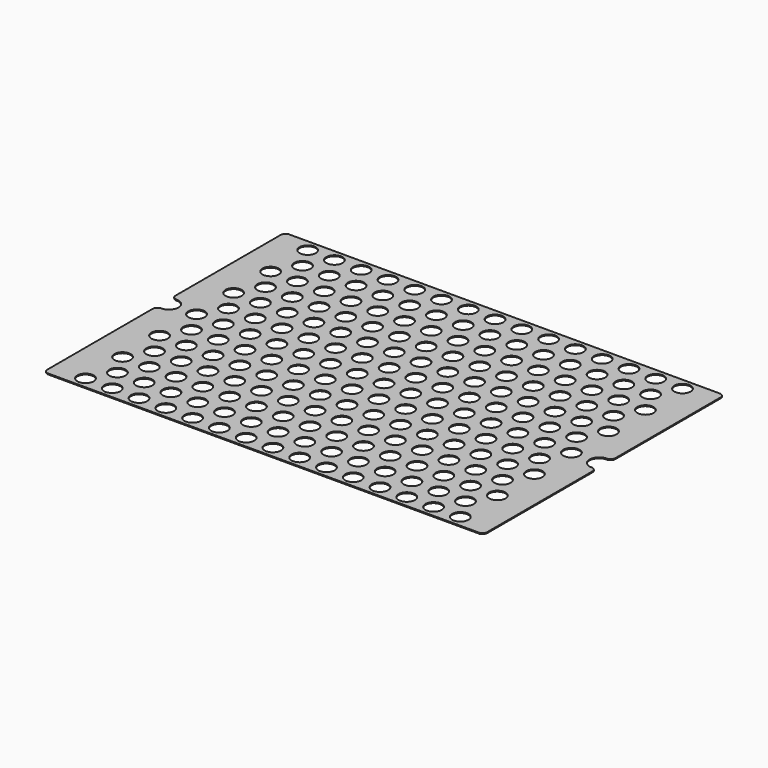
from build123d import *

# Parameters (mm, degrees)
F0_R     = 8.5
F1_DEPTH = 1


with BuildPart() as f1:
    # F0 (on Top) → F1 (new body)
    with BuildSketch(Plane.XY):
        with BuildLine():
            Line((225, 157.5), (-225, 157.5))
            ThreePointArc((-225, 157.5), (-228.535534, 156.035534), (-230, 152.5))
            Line((-230, 152.5), (-230, 15))
            ThreePointArc((-230, 15), (-228.535534, 11.464466), (-225, 10))
            ThreePointArc((-225, 10), (-215, 0), (-225, -10))
            ThreePointArc((-225, -10), (-228.535534, -11.464466), (-230, -15))
            Line((-230, -15), (-230, -152.5))
            ThreePointArc((-230, -152.5), (-228.535534, -156.035534), (-225, -157.5))
            Line((-225, -157.5), (225, -157.5))
            ThreePointArc((225, -157.5), (228.535534, -156.035534), (230, -152.5))
            Line((230, -152.5), (230, -15))
            ThreePointArc((230, -15), (228.535534, -11.464466), (225, -10))
            ThreePointArc((225, -10), (215, 0), (225, 10))
            ThreePointArc((225, 10), (228.535534, 11.464466), (230, 15))
            Line((230, 15), (230, 152.5))
            ThreePointArc((230, 152.5), (228.535534, 156.035534), (225, 157.5))
        make_face()
        with Locations((-196, -145.2)):
            Circle(F0_R, mode=Mode.SUBTRACT)
        with Locations((-182, -121)):
            Circle(F0_R, mode=Mode.SUBTRACT)
        with Locations((-168, -145.2)):
            Circle(F0_R, mode=Mode.SUBTRACT)
        with Locations((-140, -145.2)):
            Circle(F0_R, mode=Mode.SUBTRACT)
        with Locations((-154, -121)):
            Circle(F0_R, mode=Mode.SUBTRACT)
        with Locations((-126, -121)):
            Circle(F0_R, mode=Mode.SUBTRACT)
        with Locations((-196, -96.8)):
            Circle(F0_R, mode=Mode.SUBTRACT)
        with Locations((-168, -96.8)):
            Circle(F0_R, mode=Mode.SUBTRACT)
        with Locations((-140, -96.8)):
            Circle(F0_R, mode=Mode.SUBTRACT)
        with Locations((-112, -145.2)):
            Circle(F0_R, mode=Mode.SUBTRACT)
        with Locations((-84, -145.2)):
            Circle(F0_R, mode=Mode.SUBTRACT)
        with Locations((-98, -121)):
            Circle(F0_R, mode=Mode.SUBTRACT)
        with Locations((-70, -121)):
            Circle(F0_R, mode=Mode.SUBTRACT)
        with Locations((-56, -145.2)):
            Circle(F0_R, mode=Mode.SUBTRACT)
        with Locations((-28, -145.2)):
            Circle(F0_R, mode=Mode.SUBTRACT)
        with Locations((-42, -121)):
            Circle(F0_R, mode=Mode.SUBTRACT)
        with Locations((-14, -121)):
            Circle(F0_R, mode=Mode.SUBTRACT)
        with Locations((-112, -96.8)):
            Circle(F0_R, mode=Mode.SUBTRACT)
        with Locations((-84, -96.8)):
            Circle(F0_R, mode=Mode.SUBTRACT)
        with Locations((-56, -96.8)):
            Circle(F0_R, mode=Mode.SUBTRACT)
        with Locations((-28, -96.8)):
            Circle(F0_R, mode=Mode.SUBTRACT)
        with Locations((-182, -72.6)):
            Circle(F0_R, mode=Mode.SUBTRACT)
        with Locations((-196, -48.4)):
            Circle(F0_R, mode=Mode.SUBTRACT)
        with Locations((-154, -72.6)):
            Circle(F0_R, mode=Mode.SUBTRACT)
        with Locations((-126, -72.6)):
            Circle(F0_R, mode=Mode.SUBTRACT)
        with Locations((-168, -48.4)):
            Circle(F0_R, mode=Mode.SUBTRACT)
        with Locations((-140, -48.4)):
            Circle(F0_R, mode=Mode.SUBTRACT)
        with Locations((-182, -24.2)):
            Circle(F0_R, mode=Mode.SUBTRACT)
        with Locations((-154, -24.2)):
            Circle(F0_R, mode=Mode.SUBTRACT)
        with Locations((-126, -24.2)):
            Circle(F0_R, mode=Mode.SUBTRACT)
        with Locations((-98, -72.6)):
            Circle(F0_R, mode=Mode.SUBTRACT)
        with Locations((-70, -72.6)):
            Circle(F0_R, mode=Mode.SUBTRACT)
        with Locations((-112, -48.4)):
            Circle(F0_R, mode=Mode.SUBTRACT)
        with Locations((-84, -48.4)):
            Circle(F0_R, mode=Mode.SUBTRACT)
        with Locations((-42, -72.6)):
            Circle(F0_R, mode=Mode.SUBTRACT)
        with Locations((-14, -72.6)):
            Circle(F0_R, mode=Mode.SUBTRACT)
        with Locations((-56, -48.4)):
            Circle(F0_R, mode=Mode.SUBTRACT)
        with Locations((-28, -48.4)):
            Circle(F0_R, mode=Mode.SUBTRACT)
        with Locations((-98, -24.2)):
            Circle(F0_R, mode=Mode.SUBTRACT)
        with Locations((-70, -24.2)):
            Circle(F0_R, mode=Mode.SUBTRACT)
        with Locations((-42, -24.2)):
            Circle(F0_R, mode=Mode.SUBTRACT)
        with Locations((-14, -24.2)):
            Circle(F0_R, mode=Mode.SUBTRACT)
        with Locations((0, -145.2)):
            Circle(F0_R, mode=Mode.SUBTRACT)
        with Locations((28, -145.2)):
            Circle(F0_R, mode=Mode.SUBTRACT)
        with Locations((56, -145.2)):
            Circle(F0_R, mode=Mode.SUBTRACT)
        with Locations((14, -121)):
            Circle(F0_R, mode=Mode.SUBTRACT)
        with Locations((42, -121)):
            Circle(F0_R, mode=Mode.SUBTRACT)
        with Locations((84, -145.2)):
            Circle(F0_R, mode=Mode.SUBTRACT)
        with Locations((112, -145.2)):
            Circle(F0_R, mode=Mode.SUBTRACT)
        with Locations((70, -121)):
            Circle(F0_R, mode=Mode.SUBTRACT)
        with Locations((98, -121)):
            Circle(F0_R, mode=Mode.SUBTRACT)
        with Locations((0, -96.8)):
            Circle(F0_R, mode=Mode.SUBTRACT)
        with Locations((28, -96.8)):
            Circle(F0_R, mode=Mode.SUBTRACT)
        with Locations((56, -96.8)):
            Circle(F0_R, mode=Mode.SUBTRACT)
        with Locations((84, -96.8)):
            Circle(F0_R, mode=Mode.SUBTRACT)
        with Locations((112, -96.8)):
            Circle(F0_R, mode=Mode.SUBTRACT)
        with Locations((140, -145.2)):
            Circle(F0_R, mode=Mode.SUBTRACT)
        with Locations((168, -145.2)):
            Circle(F0_R, mode=Mode.SUBTRACT)
        with Locations((126, -121)):
            Circle(F0_R, mode=Mode.SUBTRACT)
        with Locations((154, -121)):
            Circle(F0_R, mode=Mode.SUBTRACT)
        with Locations((196, -145.2)):
            Circle(F0_R, mode=Mode.SUBTRACT)
        with Locations((182, -121)):
            Circle(F0_R, mode=Mode.SUBTRACT)
        with Locations((140, -96.8)):
            Circle(F0_R, mode=Mode.SUBTRACT)
        with Locations((168, -96.8)):
            Circle(F0_R, mode=Mode.SUBTRACT)
        with Locations((196, -96.8)):
            Circle(F0_R, mode=Mode.SUBTRACT)
        with Locations((14, -72.6)):
            Circle(F0_R, mode=Mode.SUBTRACT)
        with Locations((42, -72.6)):
            Circle(F0_R, mode=Mode.SUBTRACT)
        with Locations((0, -48.4)):
            Circle(F0_R, mode=Mode.SUBTRACT)
        with Locations((28, -48.4)):
            Circle(F0_R, mode=Mode.SUBTRACT)
        with Locations((56, -48.4)):
            Circle(F0_R, mode=Mode.SUBTRACT)
        with Locations((70, -72.6)):
            Circle(F0_R, mode=Mode.SUBTRACT)
        with Locations((98, -72.6)):
            Circle(F0_R, mode=Mode.SUBTRACT)
        with Locations((84, -48.4)):
            Circle(F0_R, mode=Mode.SUBTRACT)
        with Locations((112, -48.4)):
            Circle(F0_R, mode=Mode.SUBTRACT)
        with Locations((14, -24.2)):
            Circle(F0_R, mode=Mode.SUBTRACT)
        with Locations((42, -24.2)):
            Circle(F0_R, mode=Mode.SUBTRACT)
        with Locations((70, -24.2)):
            Circle(F0_R, mode=Mode.SUBTRACT)
        with Locations((98, -24.2)):
            Circle(F0_R, mode=Mode.SUBTRACT)
        with Locations((126, -72.6)):
            Circle(F0_R, mode=Mode.SUBTRACT)
        with Locations((154, -72.6)):
            Circle(F0_R, mode=Mode.SUBTRACT)
        with Locations((140, -48.4)):
            Circle(F0_R, mode=Mode.SUBTRACT)
        with Locations((168, -48.4)):
            Circle(F0_R, mode=Mode.SUBTRACT)
        with Locations((182, -72.6)):
            Circle(F0_R, mode=Mode.SUBTRACT)
        with Locations((196, -48.4)):
            Circle(F0_R, mode=Mode.SUBTRACT)
        with Locations((126, -24.2)):
            Circle(F0_R, mode=Mode.SUBTRACT)
        with Locations((154, -24.2)):
            Circle(F0_R, mode=Mode.SUBTRACT)
        with Locations((182, -24.2)):
            Circle(F0_R, mode=Mode.SUBTRACT)
        with Locations((-196, 0)):
            Circle(F0_R, mode=Mode.SUBTRACT)
        with Locations((-182, 24.2)):
            Circle(F0_R, mode=Mode.SUBTRACT)
        with Locations((-168, 0)):
            Circle(F0_R, mode=Mode.SUBTRACT)
        with Locations((-140, 0)):
            Circle(F0_R, mode=Mode.SUBTRACT)
        with Locations((-154, 24.2)):
            Circle(F0_R, mode=Mode.SUBTRACT)
        with Locations((-126, 24.2)):
            Circle(F0_R, mode=Mode.SUBTRACT)
        with Locations((-196, 48.4)):
            Circle(F0_R, mode=Mode.SUBTRACT)
        with Locations((-182, 72.6)):
            Circle(F0_R, mode=Mode.SUBTRACT)
        with Locations((-168, 48.4)):
            Circle(F0_R, mode=Mode.SUBTRACT)
        with Locations((-140, 48.4)):
            Circle(F0_R, mode=Mode.SUBTRACT)
        with Locations((-154, 72.6)):
            Circle(F0_R, mode=Mode.SUBTRACT)
        with Locations((-126, 72.6)):
            Circle(F0_R, mode=Mode.SUBTRACT)
        with Locations((-112, 0)):
            Circle(F0_R, mode=Mode.SUBTRACT)
        with Locations((-84, 0)):
            Circle(F0_R, mode=Mode.SUBTRACT)
        with Locations((-98, 24.2)):
            Circle(F0_R, mode=Mode.SUBTRACT)
        with Locations((-70, 24.2)):
            Circle(F0_R, mode=Mode.SUBTRACT)
        with Locations((-56, 0)):
            Circle(F0_R, mode=Mode.SUBTRACT)
        with Locations((-28, 0)):
            Circle(F0_R, mode=Mode.SUBTRACT)
        with Locations((-42, 24.2)):
            Circle(F0_R, mode=Mode.SUBTRACT)
        with Locations((-14, 24.2)):
            Circle(F0_R, mode=Mode.SUBTRACT)
        with Locations((-112, 48.4)):
            Circle(F0_R, mode=Mode.SUBTRACT)
        with Locations((-84, 48.4)):
            Circle(F0_R, mode=Mode.SUBTRACT)
        with Locations((-98, 72.6)):
            Circle(F0_R, mode=Mode.SUBTRACT)
        with Locations((-70, 72.6)):
            Circle(F0_R, mode=Mode.SUBTRACT)
        with Locations((-56, 48.4)):
            Circle(F0_R, mode=Mode.SUBTRACT)
        with Locations((-28, 48.4)):
            Circle(F0_R, mode=Mode.SUBTRACT)
        with Locations((-42, 72.6)):
            Circle(F0_R, mode=Mode.SUBTRACT)
        with Locations((-14, 72.6)):
            Circle(F0_R, mode=Mode.SUBTRACT)
        with Locations((-196, 96.8)):
            Circle(F0_R, mode=Mode.SUBTRACT)
        with Locations((-168, 96.8)):
            Circle(F0_R, mode=Mode.SUBTRACT)
        with Locations((-140, 96.8)):
            Circle(F0_R, mode=Mode.SUBTRACT)
        with Locations((-182, 121)):
            Circle(F0_R, mode=Mode.SUBTRACT)
        with Locations((-196, 145.2)):
            Circle(F0_R, mode=Mode.SUBTRACT)
        with Locations((-154, 121)):
            Circle(F0_R, mode=Mode.SUBTRACT)
        with Locations((-126, 121)):
            Circle(F0_R, mode=Mode.SUBTRACT)
        with Locations((-168, 145.2)):
            Circle(F0_R, mode=Mode.SUBTRACT)
        with Locations((-140, 145.2)):
            Circle(F0_R, mode=Mode.SUBTRACT)
        with Locations((-112, 96.8)):
            Circle(F0_R, mode=Mode.SUBTRACT)
        with Locations((-84, 96.8)):
            Circle(F0_R, mode=Mode.SUBTRACT)
        with Locations((-56, 96.8)):
            Circle(F0_R, mode=Mode.SUBTRACT)
        with Locations((-28, 96.8)):
            Circle(F0_R, mode=Mode.SUBTRACT)
        with Locations((-98, 121)):
            Circle(F0_R, mode=Mode.SUBTRACT)
        with Locations((-70, 121)):
            Circle(F0_R, mode=Mode.SUBTRACT)
        with Locations((-112, 145.2)):
            Circle(F0_R, mode=Mode.SUBTRACT)
        with Locations((-84, 145.2)):
            Circle(F0_R, mode=Mode.SUBTRACT)
        with Locations((-42, 121)):
            Circle(F0_R, mode=Mode.SUBTRACT)
        with Locations((-14, 121)):
            Circle(F0_R, mode=Mode.SUBTRACT)
        with Locations((-56, 145.2)):
            Circle(F0_R, mode=Mode.SUBTRACT)
        with Locations((-28, 145.2)):
            Circle(F0_R, mode=Mode.SUBTRACT)
        Circle(F0_R, mode=Mode.SUBTRACT)
        with Locations((28, 0)):
            Circle(F0_R, mode=Mode.SUBTRACT)
        with Locations((56, 0)):
            Circle(F0_R, mode=Mode.SUBTRACT)
        with Locations((14, 24.2)):
            Circle(F0_R, mode=Mode.SUBTRACT)
        with Locations((42, 24.2)):
            Circle(F0_R, mode=Mode.SUBTRACT)
        with Locations((84, 0)):
            Circle(F0_R, mode=Mode.SUBTRACT)
        with Locations((112, 0)):
            Circle(F0_R, mode=Mode.SUBTRACT)
        with Locations((70, 24.2)):
            Circle(F0_R, mode=Mode.SUBTRACT)
        with Locations((98, 24.2)):
            Circle(F0_R, mode=Mode.SUBTRACT)
        with Locations((0, 48.4)):
            Circle(F0_R, mode=Mode.SUBTRACT)
        with Locations((28, 48.4)):
            Circle(F0_R, mode=Mode.SUBTRACT)
        with Locations((56, 48.4)):
            Circle(F0_R, mode=Mode.SUBTRACT)
        with Locations((14, 72.6)):
            Circle(F0_R, mode=Mode.SUBTRACT)
        with Locations((42, 72.6)):
            Circle(F0_R, mode=Mode.SUBTRACT)
        with Locations((84, 48.4)):
            Circle(F0_R, mode=Mode.SUBTRACT)
        with Locations((112, 48.4)):
            Circle(F0_R, mode=Mode.SUBTRACT)
        with Locations((70, 72.6)):
            Circle(F0_R, mode=Mode.SUBTRACT)
        with Locations((98, 72.6)):
            Circle(F0_R, mode=Mode.SUBTRACT)
        with Locations((140, 0)):
            Circle(F0_R, mode=Mode.SUBTRACT)
        with Locations((168, 0)):
            Circle(F0_R, mode=Mode.SUBTRACT)
        with Locations((126, 24.2)):
            Circle(F0_R, mode=Mode.SUBTRACT)
        with Locations((154, 24.2)):
            Circle(F0_R, mode=Mode.SUBTRACT)
        with Locations((196, 0)):
            Circle(F0_R, mode=Mode.SUBTRACT)
        with Locations((182, 24.2)):
            Circle(F0_R, mode=Mode.SUBTRACT)
        with Locations((140, 48.4)):
            Circle(F0_R, mode=Mode.SUBTRACT)
        with Locations((168, 48.4)):
            Circle(F0_R, mode=Mode.SUBTRACT)
        with Locations((126, 72.6)):
            Circle(F0_R, mode=Mode.SUBTRACT)
        with Locations((154, 72.6)):
            Circle(F0_R, mode=Mode.SUBTRACT)
        with Locations((196, 48.4)):
            Circle(F0_R, mode=Mode.SUBTRACT)
        with Locations((182, 72.6)):
            Circle(F0_R, mode=Mode.SUBTRACT)
        with Locations((0, 96.8)):
            Circle(F0_R, mode=Mode.SUBTRACT)
        with Locations((28, 96.8)):
            Circle(F0_R, mode=Mode.SUBTRACT)
        with Locations((56, 96.8)):
            Circle(F0_R, mode=Mode.SUBTRACT)
        with Locations((84, 96.8)):
            Circle(F0_R, mode=Mode.SUBTRACT)
        with Locations((112, 96.8)):
            Circle(F0_R, mode=Mode.SUBTRACT)
        with Locations((14, 121)):
            Circle(F0_R, mode=Mode.SUBTRACT)
        with Locations((42, 121)):
            Circle(F0_R, mode=Mode.SUBTRACT)
        with Locations((0, 145.2)):
            Circle(F0_R, mode=Mode.SUBTRACT)
        with Locations((28, 145.2)):
            Circle(F0_R, mode=Mode.SUBTRACT)
        with Locations((56, 145.2)):
            Circle(F0_R, mode=Mode.SUBTRACT)
        with Locations((70, 121)):
            Circle(F0_R, mode=Mode.SUBTRACT)
        with Locations((98, 121)):
            Circle(F0_R, mode=Mode.SUBTRACT)
        with Locations((84, 145.2)):
            Circle(F0_R, mode=Mode.SUBTRACT)
        with Locations((112, 145.2)):
            Circle(F0_R, mode=Mode.SUBTRACT)
        with Locations((140, 96.8)):
            Circle(F0_R, mode=Mode.SUBTRACT)
        with Locations((168, 96.8)):
            Circle(F0_R, mode=Mode.SUBTRACT)
        with Locations((196, 96.8)):
            Circle(F0_R, mode=Mode.SUBTRACT)
        with Locations((126, 121)):
            Circle(F0_R, mode=Mode.SUBTRACT)
        with Locations((154, 121)):
            Circle(F0_R, mode=Mode.SUBTRACT)
        with Locations((140, 145.2)):
            Circle(F0_R, mode=Mode.SUBTRACT)
        with Locations((168, 145.2)):
            Circle(F0_R, mode=Mode.SUBTRACT)
        with Locations((182, 121)):
            Circle(F0_R, mode=Mode.SUBTRACT)
        with Locations((196, 145.2)):
            Circle(F0_R, mode=Mode.SUBTRACT)
    extrude(amount=F1_DEPTH)


solid = f1.part
